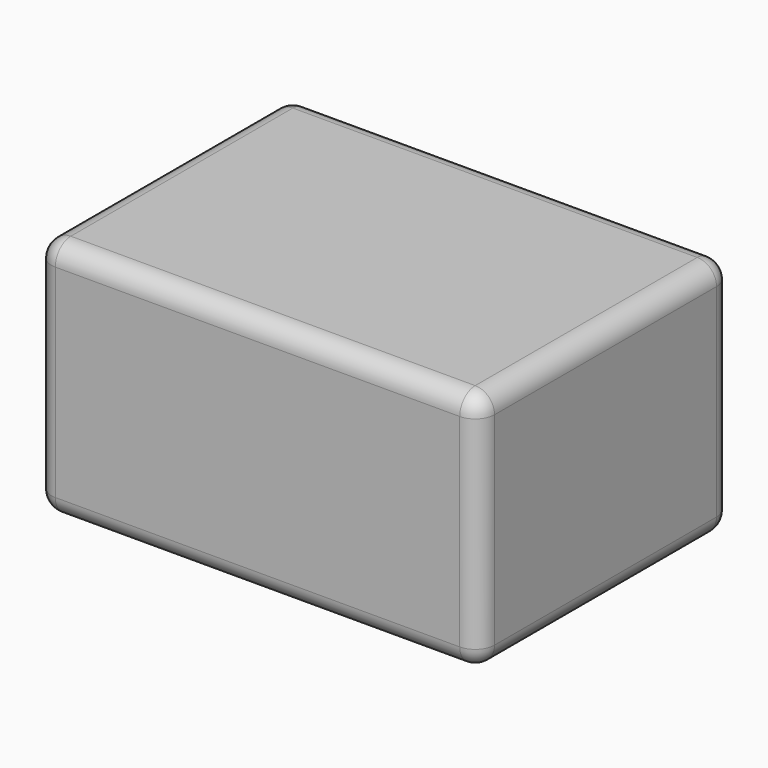
from build123d import *

# Parameters (mm, degrees)
F0_W     = 116.503421
F0_H     = 83.134603
F1_DEPTH = 63.5
F2_R     = 5.08


with BuildPart() as f1:
    # F0 (on Top) → F1 (new body)
    with BuildSketch(Plane.XY):
        with Locations((0.125355, 2.381445)):
            Rectangle(F0_W, F0_H)
    extrude(amount=-F1_DEPTH)

    # F2
    f2_edges = [f1.edges().sort_by_distance(p)[0] for p in [
        (-58.126356, 43.948747, -31.75),
        (-58.126356, -39.185856, -31.75),
        (-58.126356, 2.381446, 0),
        (-58.126356, 2.381446, -63.5),
        (58.377065, -39.185856, -31.75),
        (0.125354, -39.185856, 0),
        (0.125354, -39.185856, -63.5),
        (0.125354, 43.948747, 0),
        (58.377065, 2.381446, 0),
        (58.377065, 43.948747, -31.75),
        (58.377065, 2.381446, -63.5),
        (0.125354, 43.948747, -63.5),
    ]]
    fillet(f2_edges, radius=F2_R)


solid = f1.part
